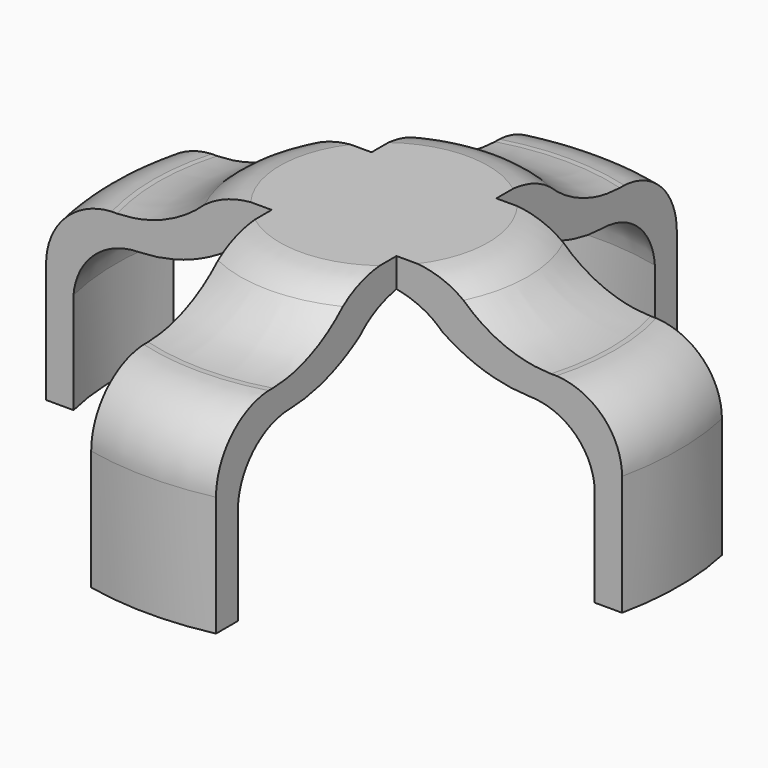
from build123d import *

# Parameters (mm, degrees)
F2_W     = 7.197865
F2_H     = 7.241845
F2_W_2   = 7.277308
F2_H_2   = 7.777737
F2_W_3   = 7.559205
F2_H_3   = 7.282023
F2_W_4   = 6.779674
F2_H_4   = 6.794866
F3_DEPTH = 25.4


with BuildPart() as f1:
    # F0 (on Front) → F1 (revolve)
    with BuildSketch(Plane.XZ):
        with BuildLine():
            Line((2.966464, 6.858), (0, 6.858))
            Line((0, 6.858), (0, 6.096))
            Line((0, 6.096), (2.144658, 6.096))
            ThreePointArc((2.144658, 6.096), (2.920532, 5.876714), (3.557912, 5.382938))
            ThreePointArc((3.557912, 5.382938), (4.622787, 4.797905), (5.8166, 4.572))
            ThreePointArc((5.8166, 4.572), (7.055252, 4.085911), (7.6327, 2.887122))
            Line((7.6327, 2.887122), (7.6327, 0))
            Line((7.6327, 0), (8.3947, 0))
            Line((8.3947, 0), (8.3947, 3.42098))
            ThreePointArc((8.3947, 3.42098), (7.867128, 4.738692), (6.5786, 5.334))
            Line((6.5786, 5.334), (6.428647, 5.334))
            ThreePointArc((6.428647, 5.334), (5.158581, 5.617736), (4.09507, 6.367748))
            ThreePointArc((4.09507, 6.367748), (3.567043, 6.696386), (2.966464, 6.858))
        make_face()
    revolve(axis=Axis((0, 0, 5.133816), (0, 0, 1)))

    # F2 (on Top) → F3 (cut)
    with BuildSketch(Plane.XY):
        with Locations((-5.376932, -5.398923)):
            Rectangle(F2_W, F2_H)
        with Locations((5.416654, -5.666868)):
            Rectangle(F2_W_2, F2_H_2)
        with Locations((5.557602, 5.419011)):
            Rectangle(F2_W_3, F2_H_3)
        with Locations((-5.167837, 5.175433)):
            Rectangle(F2_W_4, F2_H_4)
    extrude(amount=F3_DEPTH, mode=Mode.SUBTRACT)


solid = f1.part
